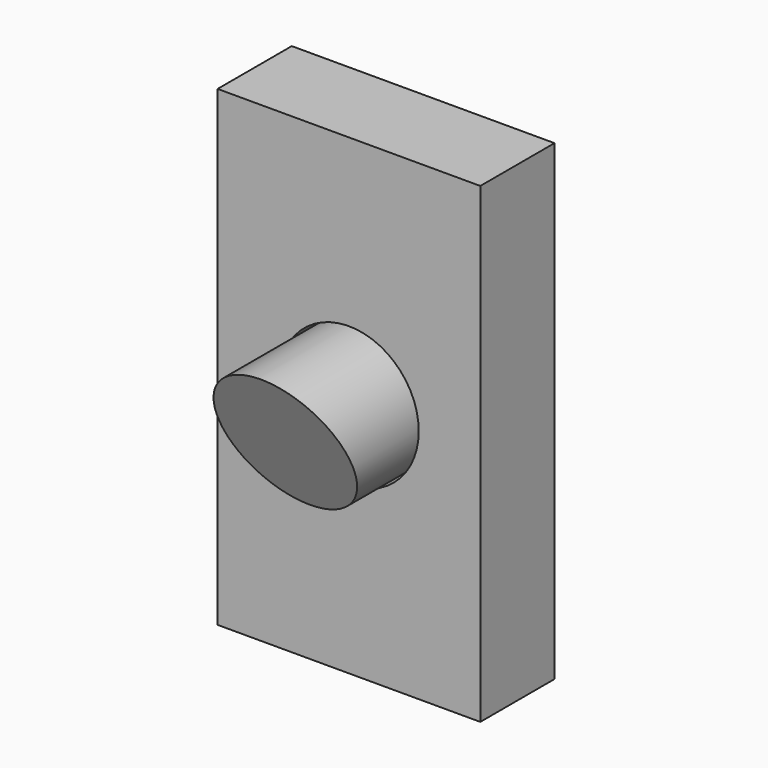
from build123d import *

# Parameters (mm, degrees)
F0_W          = 53.9750009775
F0_H          = 96.9409272075
F0_R          = 14.3368039947
F1_DEPTH      = 19.05
F2_R          = 13.8779125856
F3_DEPTH      = 41.656
F5_DEPTH      = 25.4
F5_DEPTH_BACK = 25.4


with BuildPart() as f1:
    # F0 (on Front) → F1 (new body)
    with BuildSketch(Plane.XZ):
        Rectangle(F0_W, F0_H)
        Circle(F0_R, mode=Mode.SUBTRACT)
    extrude(amount=F1_DEPTH)


with BuildPart() as f3:
    # F2 (on Front) → F3 (new body)
    with BuildSketch(Plane.XZ):
        Circle(F2_R)
    extrude(amount=F3_DEPTH)

    # F4 (on Right) → F5 (cut, two sides)
    with BuildSketch(Plane.YZ) as f5_sk:
        Polygon((-27.5864936411, -17.2301027924), (-42.4337126315, 15.5804129317), (-42.0671105385, -17.2301027924), align=None)
    extrude(amount=-F5_DEPTH, mode=Mode.SUBTRACT)
    extrude(f5_sk.sketch, amount=F5_DEPTH_BACK, mode=Mode.SUBTRACT)


solid = Compound([f1.part, f3.part])
